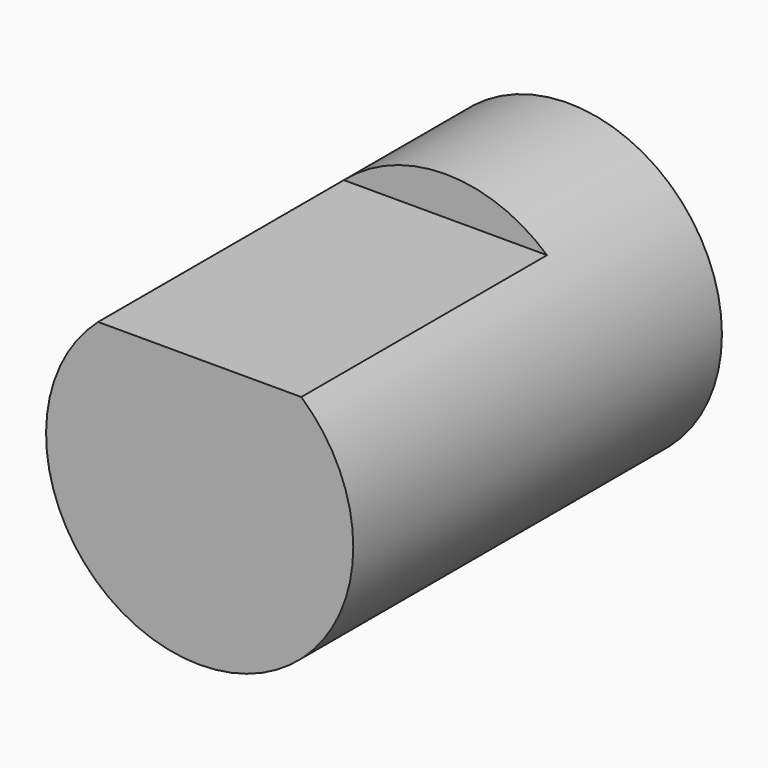
from build123d import *

# Parameters (mm, degrees)
F0_R     = 3.175
F1_DEPTH = 9.525
F3_DEPTH = 6.35


with BuildPart() as f1:
    # F0 (on Front) → F1 (new body)
    with BuildSketch(Plane.XZ):
        Circle(F0_R)
    extrude(amount=F1_DEPTH)

    # F2 (on face) → F3 (cut)
    with BuildSketch(Plane.XZ.offset(9.525)):
        with BuildLine():
            ThreePointArc((2.100065, 2.38125), (0, 3.175), (-2.100065, 2.38125))
            Line((-2.100065, 2.38125), (2.100065, 2.38125))
        make_face()
    extrude(amount=-F3_DEPTH, mode=Mode.SUBTRACT)


solid = f1.part
